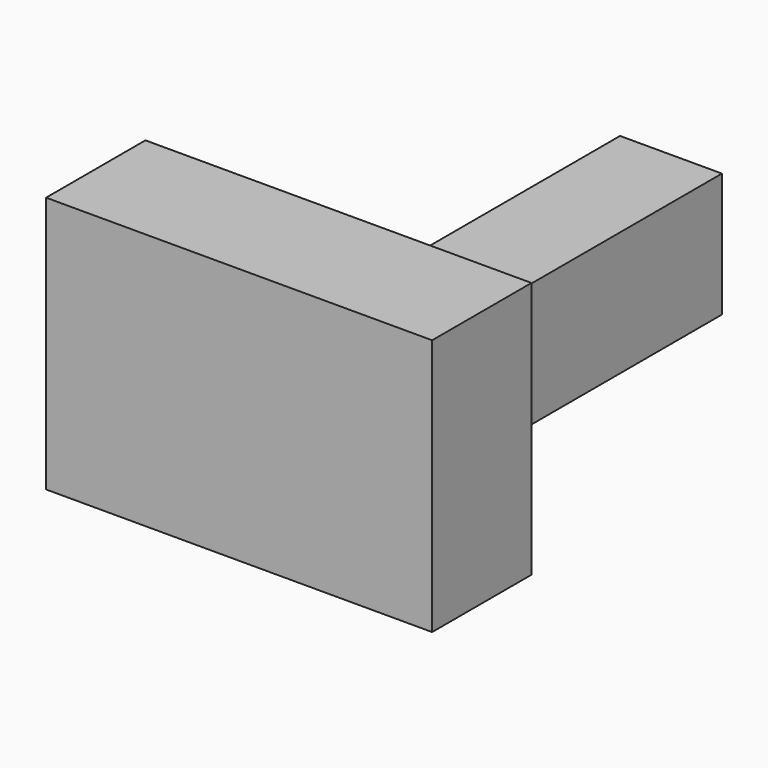
from build123d import *

# Parameters (mm, degrees)
F0_W     = 78.982349
F0_H     = 52.557027
F1_DEPTH = 25.4
F2_W     = 20.846644
F2_H     = 74.326865
F3_DEPTH = 25.4


with BuildPart() as f1:
    # F0 (on Front) → F1 (new body)
    with BuildSketch(Plane.XZ):
        with Locations((-2.348917, -6.606331)):
            Rectangle(F0_W, F0_H)
    extrude(amount=F1_DEPTH)


with BuildPart() as f3:
    # F2 (on Top) → F3 (new body)
    with BuildSketch(Plane.XY):
        with Locations((3.229761, 40.900539)):
            Rectangle(F2_W, F2_H)
    extrude(amount=-F3_DEPTH)


solid = Compound([f1.part, f3.part])
